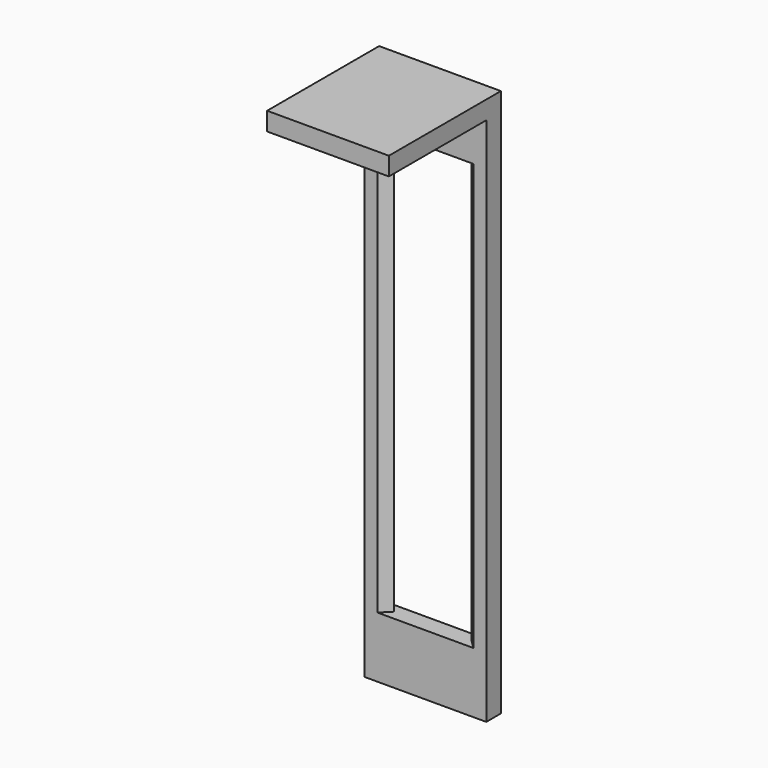
from build123d import *

# Parameters (mm, degrees)
SKETCH_W     = 20
SKETCH_H     = 3
PAD_DEPTH    = 10
PAD001_DEPTH = 70
SKETCH002_W  = 20
SKETCH002_H  = 3
PAD002_DEPTH = 10
SKETCH006_W  = 20
SKETCH006_H  = 3
PAD004_DEPTH = 20


with BuildPart() as part:
    # Sketch (on XY_Plane of Origin) → Pad (new body)
    with BuildSketch(Plane.XY):
        Rectangle(SKETCH_W, SKETCH_H)
    extrude(amount=PAD_DEPTH)

    # Sketch001 (on Face5 of Pad) → Pad001 (join)
    with BuildSketch(Plane(origin=(0, 0, 0), x_dir=(1, 0, 0), z_dir=(0, 0, -1))):
        Polygon((-7.87868, 1.5), (-6.37868, 0), (-7.87868, -1.5), (-10, -1.5), (-10, 1.5), align=None)
        Polygon((7.87868, 1.5), (6.37868, 0), (7.87868, -1.5), (10, -1.5), (10, 1.5), align=None)
    extrude(amount=PAD001_DEPTH)

    # Sketch002 (on Face7 of Pad001) → Pad002 (join)
    with BuildSketch(Plane(origin=(0, 0, -70), x_dir=(1, 0, 0), z_dir=(0, 0, -1))):
        Rectangle(SKETCH002_W, SKETCH002_H)
    extrude(amount=PAD002_DEPTH)

    # Sketch006 (on Face10 of Pad002) → Pad004 (join)
    with BuildSketch(Plane.XZ.offset(1.5)):
        with Locations((0, 8.5)):
            Rectangle(SKETCH006_W, SKETCH006_H)
    extrude(amount=PAD004_DEPTH)


solid = part.part
